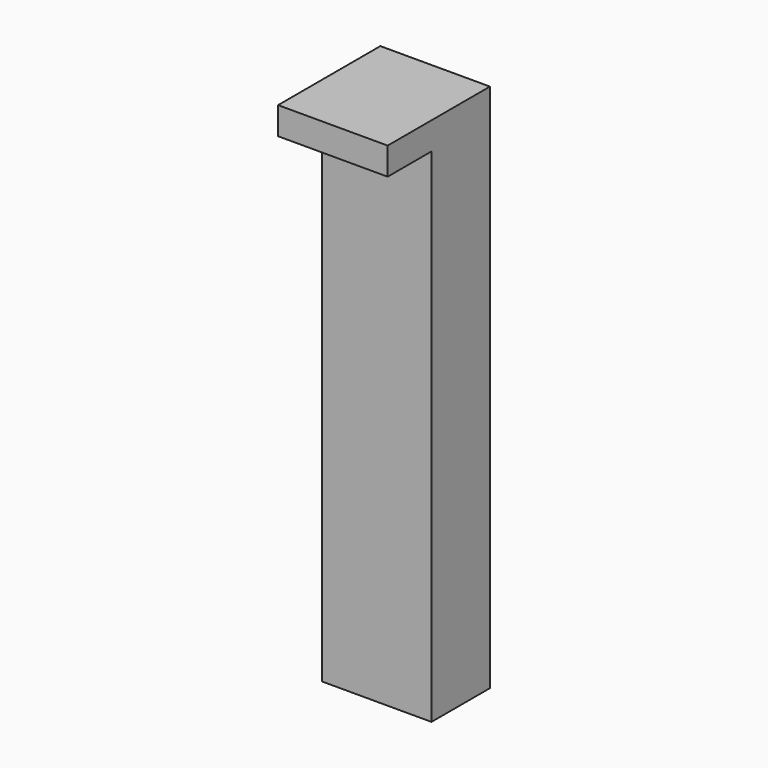
from build123d import *

# Parameters (mm, degrees)
BOX015_W                  = 12
BOX015_H                  = 8
BOX015_DEPTH              = 55
BOX016_W                  = 12
BOX016_H                  = 14
BOX016_DEPTH              = 3
FUSION009_PLACEMENT_ANGLE = 180


with BuildPart() as obj1:
    # Box015 → Box015 (new body)
    with BuildSketch(Plane(origin=(47, 17, 0), x_dir=(1, 0, 0), z_dir=(0, 0, 1))):
        with Locations((6, 4)):
            Rectangle(BOX015_W, BOX015_H)
    extrude(amount=BOX015_DEPTH)


with BuildPart() as l2:
    # Box016 → Box016 (new body)
    with BuildSketch(Plane(origin=(47, 17, 55), x_dir=(1, 0, 0), z_dir=(0, 0, 1))):
        with Locations((6, 7)):
            Rectangle(BOX016_W, BOX016_H)
    extrude(amount=BOX016_DEPTH)

    # Fusion009: union obj1
    add(obj1.part)


with BuildPart() as l2_1:
    # Fusion009 placement: moved
    add(l2.part.moved(Location((111, 141, 0))).rotate(Axis((111, 141, 0), (0, 0, 1)), FUSION009_PLACEMENT_ANGLE))


solid = l2_1.part
